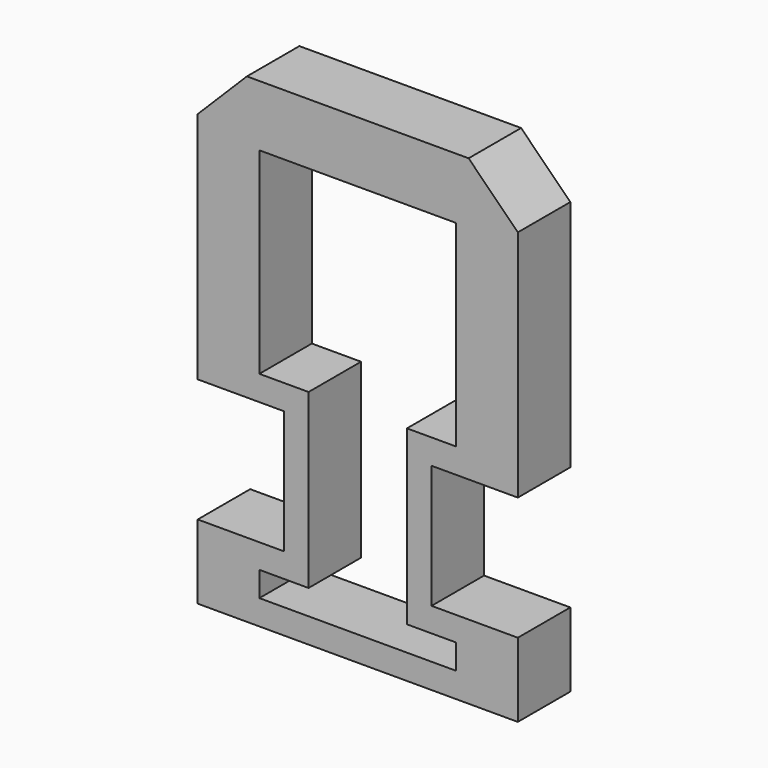
from build123d import *

# Parameters (mm, degrees)
F1_DEPTH = 25.4


with BuildPart() as f1:
    # F0 (on Front) → F1 (new body)
    with BuildSketch(Plane.XZ):
        Polygon((42.926, 78.265438), (0, 78.265438), (-42.926, 78.265438), (-61.976, 59.215438), (-61.976, -31.208562), (-28.575, -31.208562), (-28.575, -78.960562), (-61.976, -78.960562), (-61.976, -107.662562), (0, -107.662562), (61.976, -107.662562), (61.976, -78.960562), (28.575, -78.960562), (28.575, -31.208562), (61.976, -31.208562), (61.976, 59.215438), align=None)
        Polygon((-38.1, 54.643438), (0, 54.643438), (38.1, 54.643438), (38.1, -21.556562), (19.05, -21.556562), (19.05, -88.358562), (38.1, -88.358562), (38.1, -98.010562), (-38.1, -98.010562), (-38.1, -88.358562), (-19.05, -88.358562), (-19.05, -21.556562), (-38.1, -21.556562), align=None, mode=Mode.SUBTRACT)
    extrude(amount=F1_DEPTH)


solid = f1.part
